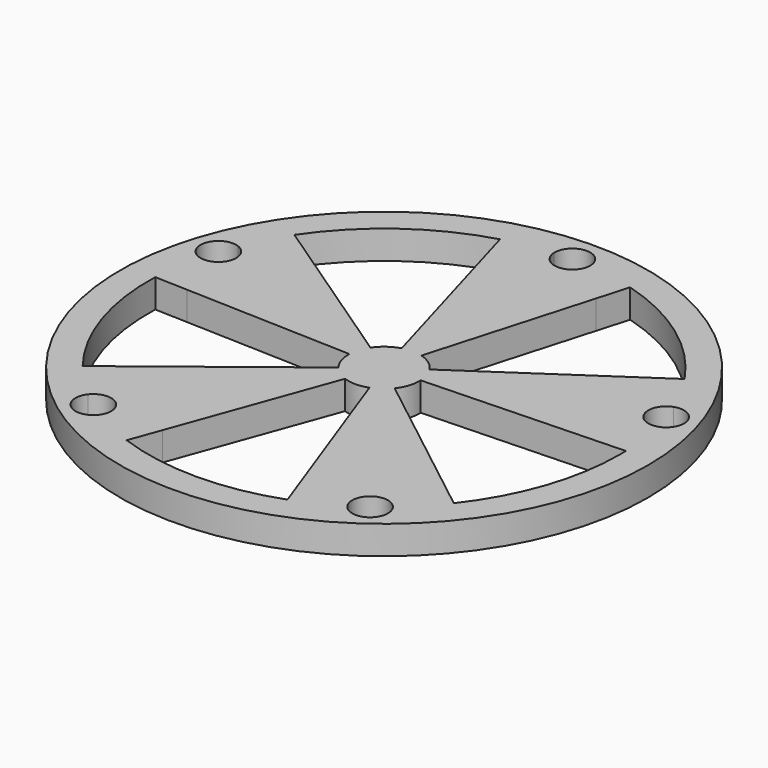
from build123d import *

# Parameters (mm, degrees)
F0_R     = 37
F1_DEPTH = 4


with BuildPart() as f1:
    # F0 (on Top) → F1 (new body)
    with BuildSketch(Plane.XY):
        with Locations((-0.6144908867, -20.3631758839)):
            Circle(F0_R)
        with BuildLine():
            ThreePointArc((-3.1126967397, 12.5421271465), (-0.6618478689, 15.1363755392), (1.8855091133, 12.6368241161))
            ThreePointArc((1.8855091133, 12.6368241161), (1.8850605363, 12.589467134), (1.8837149663, 12.5421271464))
            ThreePointArc((1.8837149663, 12.5421271465), (5.2227863742, 12.1164514875), (8.5011233102, 11.3528386484))
            ThreePointArc((8.5011233102, 11.3528386484), (18.7824224389, 6.3343849305), (26.7323517041, -1.8929241175))
            ThreePointArc((26.7323517041, -1.8929241175), (28.4716524971, -4.7748384787), (29.9083239169, -7.8189430869))
            ThreePointArc((29.9083239169, -7.8189430869), (32.2012610114, -8.1155997543), (33.270374151, -10.1656150695))
            ThreePointArc((33.270374151, -10.1656150695), (32.7647179948, -11.6731271366), (31.4523000449, -12.570812998))
            ThreePointArc((31.4523000449, -12.570812998), (32.0792882461, -15.8779996316), (32.3661111061, -19.2318526816))
            ThreePointArc((32.3661111061, -19.2318526816), (32.3806592551, -19.7974311378), (32.3855091133, -20.3631758839))
            ThreePointArc((32.3855091133, -20.3631758839), (30.5909369208, -31.0972932369), (25.4024015163, -40.6639470438))
            ThreePointArc((25.4024015163, -40.6639470438), (23.199011587, -43.2086809107), (20.7478519472, -45.5157166828))
            ThreePointArc((20.7478519472, -45.5157166828), (21.1450029953, -46.2432936637), (21.2824224389, -47.0607366982))
            ThreePointArc((21.2824224389, -47.0607366982), (19.5097871405, -49.4525854792), (16.7056699662, -48.452533798))
            ThreePointArc((16.7056699662, -48.452533798), (13.7540985771, -50.0708118857), (10.6530279173, -51.3799942249))
            ThreePointArc((10.6530279173, -51.3799942249), (-0.6144908867, -53.3631758839), (-11.8820096908, -51.3799942249))
            ThreePointArc((-11.8820096908, -51.3799942249), (-14.9830803506, -50.0708118857), (-17.9346517396, -48.452533798))
            ThreePointArc((-17.9346517396, -48.452533798), (-21.4808673431, -49.0832791842), (-21.9768337207, -45.5157166828))
            ThreePointArc((-21.9768337207, -45.5157166828), (-24.4279933605, -43.2086809107), (-26.6313832898, -40.6639470438))
            ThreePointArc((-26.6313832898, -40.6639470438), (-31.9993559245, -30.5607366982), (-33.5950928796, -19.2318526816))
            ThreePointArc((-33.5950928796, -19.2318526816), (-33.3082700196, -15.8779996316), (-32.6812818184, -12.570812998))
            ThreePointArc((-32.6812818184, -12.570812998), (-34.3769972152, -9.3930725835), (-31.1373056904, -7.8189430869))
            ThreePointArc((-31.1373056904, -7.8189430869), (-29.7006342706, -4.7748384787), (-27.9613334776, -1.8929241175))
            ThreePointArc((-27.9613334776, -1.8929241175), (-20.0114042124, 6.3343849305), (-9.7301050837, 11.3528386484))
            ThreePointArc((-9.7301050837, 11.3528386484), (-6.4517681477, 12.1164514875), (-3.1126967397, 12.5421271465))
        make_face(mode=Mode.SUBTRACT)
        with BuildLine():
            ThreePointArc((3.5289701119, -17.564652889), (2.3244353747, -16.318090912), (0.7666627795, -15.5577191365))
            Line((0.7666627795, -15.5577191365), (-0.6144908867, -20.3631758839))
            Line((-0.6144908867, -20.3631758839), (3.5289701119, -17.564652889))
        make_face()
        with BuildLine():
            ThreePointArc((0.7666627795, -15.5577191365), (-0.6144908867, -15.3631758839), (-1.9956445529, -15.5577191365))
            Line((-1.9956445529, -15.5577191365), (-0.6144908867, -20.3631758839))
            Line((-0.6144908867, -20.3631758839), (0.7666627795, -15.5577191365))
        make_face()
        with BuildLine():
            Line((-0.6144908867, -20.3631758839), (-1.9956445529, -15.5577191365))
            ThreePointArc((-1.9956445529, -15.5577191365), (-3.5534171482, -16.318090912), (-4.7579518853, -17.564652889))
            Line((-4.7579518853, -17.564652889), (-0.6144908867, -20.3631758839))
        make_face()
        with BuildLine():
            Line((-0.6144908867, -20.3631758839), (-4.7579518853, -17.564652889))
            ThreePointArc((-4.7579518853, -17.564652889), (-5.3697734682, -18.818090912), (-5.6115517947, -20.1917632774))
            Line((-5.6115517947, -20.1917632774), (-0.6144908867, -20.3631758839))
        make_face()
        with BuildLine():
            Line((-4.5564442811, -23.439050302), (-0.6144908867, -20.3631758839))
            Line((-0.6144908867, -20.3631758839), (-5.6115517947, -20.1917632774))
            ThreePointArc((-5.6115517947, -20.1917632774), (-5.3697734682, -21.9082608557), (-4.5564442811, -23.439050302))
        make_face()
        with BuildLine():
            Line((-2.3216907055, -25.0626938143), (-0.6144908867, -20.3631758839))
            Line((-0.6144908867, -20.3631758839), (-4.5564442811, -23.439050302))
            ThreePointArc((-4.5564442811, -23.439050302), (-3.5534171482, -24.4082608557), (-2.3216907055, -25.0626938143))
        make_face()
        with BuildLine():
            Line((1.0927089321, -25.0626938143), (-0.6144908867, -20.3631758839))
            Line((-0.6144908867, -20.3631758839), (-2.3216907055, -25.0626938143))
            ThreePointArc((-2.3216907055, -25.0626938143), (-0.6144908867, -25.3631758839), (1.0927089321, -25.0626938143))
        make_face()
        with BuildLine():
            Line((3.3274625077, -23.439050302), (-0.6144908867, -20.3631758839))
            Line((-0.6144908867, -20.3631758839), (1.0927089321, -25.0626938143))
            ThreePointArc((1.0927089321, -25.0626938143), (2.3244353747, -24.4082608557), (3.3274625077, -23.439050302))
        make_face()
        with BuildLine():
            Line((3.5289701119, -17.564652889), (-0.6144908867, -20.3631758839))
            Line((-0.6144908867, -20.3631758839), (4.3825700213, -20.1917632774))
            ThreePointArc((4.3825700213, -20.1917632774), (4.1407916947, -18.818090912), (3.5289701119, -17.564652889))
        make_face()
        with BuildLine():
            Line((4.3825700213, -20.1917632774), (-0.6144908867, -20.3631758839))
            Line((-0.6144908867, -20.3631758839), (3.3274625077, -23.439050302))
            ThreePointArc((3.3274625077, -23.439050302), (4.1136042356, -21.989557301), (4.3855091133, -20.3631758839))
            ThreePointArc((4.3855091133, -20.3631758839), (4.3847742863, -20.2774569829), (4.3825700213, -20.1917632774))
        make_face()
        with BuildLine():
            ThreePointArc((1.8837149663, 12.5421271464), (-0.6144908867, 10.1368241161), (-3.1126967397, 12.5421271465))
            ThreePointArc((-3.1126967397, 12.5421271465), (-6.4517681477, 12.1164514875), (-9.7301050837, 11.3528386484))
            Line((-9.7301050837, 11.3528386484), (-8.4607071462, 6.9362143197))
            Line((-8.4607071462, 6.9362143197), (-1.9956445529, -15.5577191365))
            ThreePointArc((-1.9956445529, -15.5577191365), (-0.6144908867, -15.3631758839), (0.7666627795, -15.5577191365))
            Line((0.7666627795, -15.5577191365), (7.2317253727, 6.9362143197))
            Line((7.2317253727, 6.9362143197), (8.5011233102, 11.3528386484))
            ThreePointArc((8.5011233102, 11.3528386484), (5.2227863742, 12.1164514875), (1.8837149663, 12.5421271465))
        make_face()
        with BuildLine():
            ThreePointArc((29.9083239169, -7.8189430869), (28.4716524971, -4.7748384787), (26.7323517041, -1.8929241175))
            Line((26.7323517041, -1.8929241175), (22.9241578916, -4.4650052731))
            Line((22.9241578916, -4.4650052731), (3.5289701119, -17.564652889))
            ThreePointArc((3.5289701119, -17.564652889), (4.1407916947, -18.818090912), (4.3825700213, -20.1917632774))
            Line((4.3825700213, -20.1917632774), (32.3661111061, -19.2318526816))
            ThreePointArc((32.3661111061, -19.2318526816), (32.0792882461, -15.8779996316), (31.4523000449, -12.570812998))
            ThreePointArc((31.4523000449, -12.570812998), (28.3927328603, -10.9381575554), (29.9083239169, -7.8189430869))
        make_face()
        with BuildLine():
            ThreePointArc((3.3274625077, -23.439050302), (2.3244353747, -24.4082608557), (1.0927089321, -25.0626938143))
            Line((1.0927089321, -25.0626938143), (10.6530279173, -51.3799942249))
            ThreePointArc((10.6530279173, -51.3799942249), (13.7540985771, -50.0708118857), (16.7056699662, -48.452533798))
            ThreePointArc((16.7056699662, -48.452533798), (17.3129593082, -45.0381942123), (20.7478519472, -45.5157166828))
            ThreePointArc((20.7478519472, -45.5157166828), (23.199011587, -43.2086809107), (25.4024015163, -40.6639470438))
            Line((25.4024015163, -40.6639470438), (21.7794103669, -37.836956291))
            Line((21.7794103669, -37.836956291), (3.3274625077, -23.439050302))
        make_face()
        with BuildLine():
            ThreePointArc((-2.3216907055, -25.0626938143), (-3.5534171482, -24.4082608557), (-4.5564442811, -23.439050302))
            Line((-4.5564442811, -23.439050302), (-26.6313832898, -40.6639470438))
            ThreePointArc((-26.6313832898, -40.6639470438), (-24.4279933605, -43.2086809107), (-21.9768337207, -45.5157166828))
            ThreePointArc((-21.9768337207, -45.5157166828), (-19.1939611779, -44.6981561418), (-17.5114042124, -47.0607366982))
            ThreePointArc((-17.5114042124, -47.0607366982), (-17.6195554314, -47.7881013998), (-17.9346517396, -48.452533798))
            ThreePointArc((-17.9346517396, -48.452533798), (-14.9830803506, -50.0708118857), (-11.8820096908, -51.3799942249))
            Line((-11.8820096908, -51.3799942249), (-10.3129475496, -47.0607366982))
            Line((-10.3129475496, -47.0607366982), (-2.3216907055, -25.0626938143))
        make_face()
        with BuildLine():
            Line((-4.7579518853, -17.564652889), (-27.9613334776, -1.8929241175))
            ThreePointArc((-27.9613334776, -1.8929241175), (-29.7006342706, -4.7748384787), (-31.1373056904, -7.8189430869))
            ThreePointArc((-31.1373056904, -7.8189430869), (-29.9493406093, -8.7347282091), (-29.4993559245, -10.1656150695))
            ThreePointArc((-29.4993559245, -10.1656150695), (-30.4918438573, -12.1599589133), (-32.6812818184, -12.570812998))
            ThreePointArc((-32.6812818184, -12.570812998), (-33.3082700196, -15.8779996316), (-33.5950928796, -19.2318526816))
            Line((-33.5950928796, -19.2318526816), (-29.0023679965, -19.3893954767))
            Line((-29.0023679965, -19.3893954767), (-5.6115517947, -20.1917632774))
            ThreePointArc((-5.6115517947, -20.1917632774), (-5.3697734682, -18.818090912), (-4.7579518853, -17.564652889))
        make_face()
    extrude(amount=F1_DEPTH)


solid = f1.part
